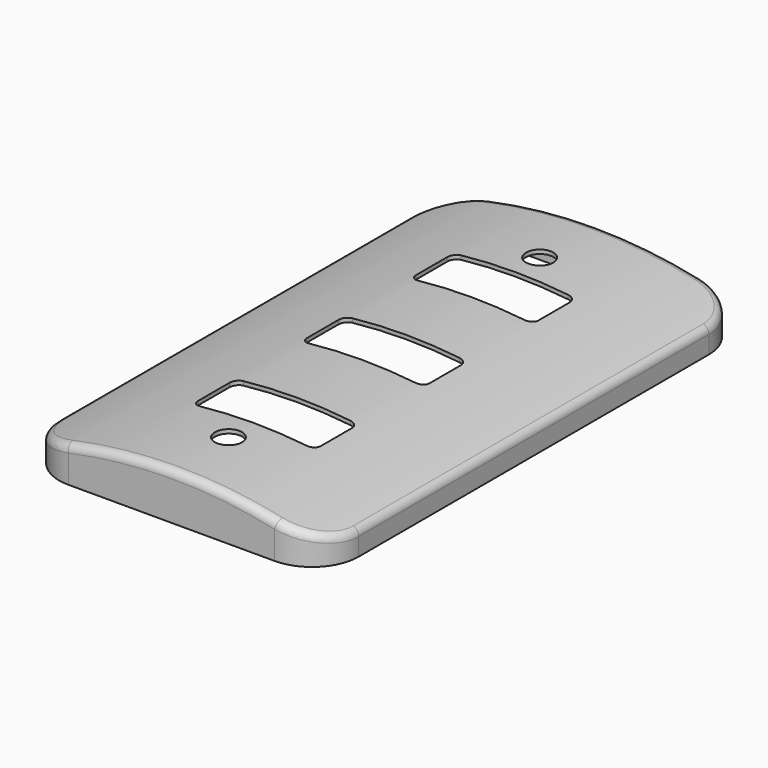
from build123d import *

# Parameters (mm, degrees)
F1_DEPTH = 136.5
F2_R     = 12
F3_R     = 2
F4_T     = -1.02
F5_R     = 3.5
F5_W     = 31.5
F5_H     = 14
F6_DEPTH = 12.001
F7_R     = 2


with BuildPart() as f1:
    # F0 (on Front) → F1 (new body)
    with BuildSketch(Plane.XZ):
        with BuildLine():
            Line((-38.5, 6.072724), (-38.5, 0))
            Line((-38.5, 0), (38.5, 0))
            Line((38.5, 0), (38.5, 6.072724))
            ThreePointArc((38.5, 6.072724), (0, 12), (-38.5, 6.072724))
        make_face()
    extrude(amount=F1_DEPTH)

    # F2
    f2_edges = [f1.edges().sort_by_distance(p)[0] for p in [
        (38.5, -136.5, 3.036362),
        (-38.5, -136.5, 3.036362),
        (38.5, 0, 3.036362),
        (-38.5, 0, 3.036362),
    ]]
    fillet(f2_edges, radius=F2_R)

    # F3
    f3_edges = [f1.edges().sort_by_distance(p)[0] for p in [
        (38.5, -68.25, 6.072724),
        (34.930833, -3.460617, 7.141532),
        (34.930833, -133.039383, 7.141532),
        (0, 0, 12),
        (0, -136.5, 12),
        (-34.930833, -3.460617, 7.141532),
        (-34.930833, -133.039383, 7.141532),
        (-38.5, -68.25, 6.072724),
    ]]
    fillet(f3_edges, radius=F3_R)

    # F4
    f4_openings = [f1.faces().sort_by_distance(p)[0] for p in [
        (0, -68.25, 0),
    ]]
    offset(amount=F4_T, openings=f4_openings)

    # F5 (on Top) → F6 (cut, through all)
    with BuildSketch(Plane.XY):
        with Locations((0, -118.25)):
            Circle(F5_R)
        with Locations((0, -103.25)):
            Rectangle(F5_W, F5_H)
        with Locations((0, -68.25)):
            Rectangle(F5_W, F5_H)
        with Locations((0, -33.25)):
            Rectangle(F5_W, F5_H)
        with Locations((0, -18.25)):
            Circle(F5_R)
    extrude(amount=F6_DEPTH, mode=Mode.SUBTRACT)

    # F7
    f7_edges = [f1.edges().sort_by_distance(p)[0] for p in [
        (-15.75, -26.25, 10.513373),
        (15.75, -26.25, 10.513373),
        (-15.75, -40.25, 10.513373),
        (15.75, -40.25, 10.513373),
        (15.75, -75.25, 10.513373),
        (15.75, -110.25, 10.513373),
        (-15.75, -110.25, 10.513373),
        (-15.75, -75.25, 10.513373),
        (-15.75, -61.25, 10.513373),
        (-15.75, -96.25, 10.513373),
        (15.75, -61.25, 10.513373),
        (15.75, -96.25, 10.513373),
    ]]
    fillet(f7_edges, radius=F7_R)


solid = f1.part
